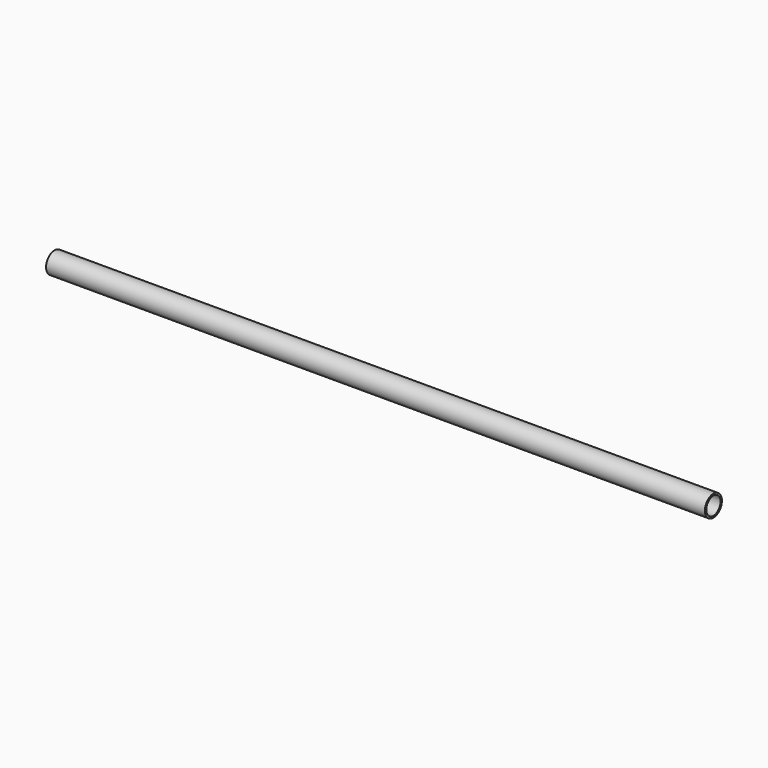
from build123d import *

# Parameters (mm, degrees)
F1_R   = 16.7
F1_R_2 = 13.932


with BuildPart() as f2:
    # F2: sweep along a path in F0
    with BuildLine(Plane.XZ) as f2_path:
        Line((0, 0), (1034, 0))
    # F1 (on Right) → F2 (sweep)
    with BuildSketch(Plane.YZ):
        Circle(F1_R)
        Circle(F1_R_2, mode=Mode.SUBTRACT)
    sweep(path=f2_path.line)


solid = f2.part
